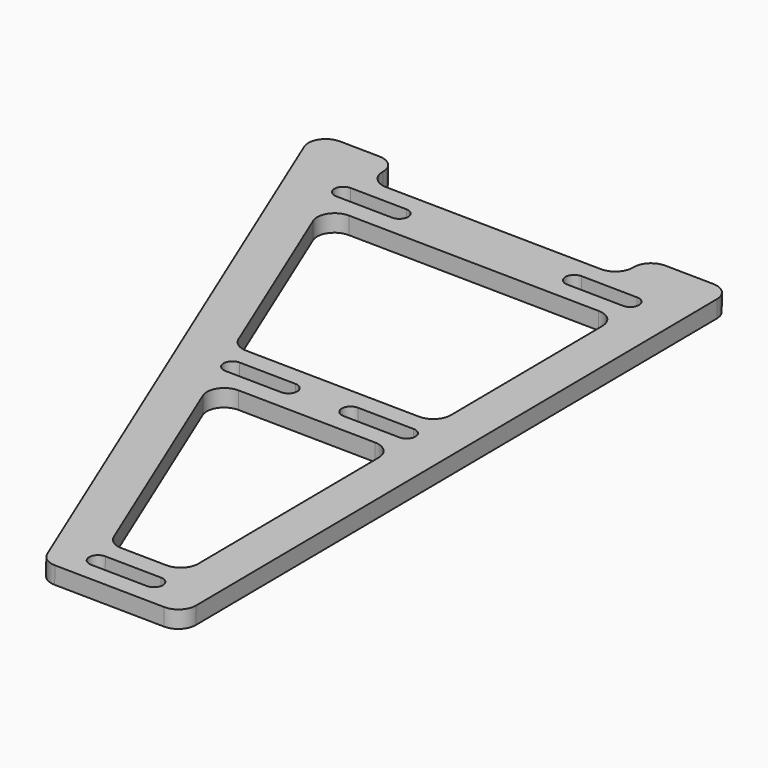
from build123d import *

# Parameters (mm, degrees)
PAD_DEPTH              = 6.25
FILLET_R               = 6.4
MIRROR_ROLL_ANGLE      = -179.860361
MIRROR_PITCH_ANGLE     = 0.86933
MIRROR_PLACEMENT_ANGLE = 0.335531


with BuildPart() as body:
    # Sketch → Pad (new body)
    with BuildSketch(Plane.XY):
        Polygon((0, 250), (50, 250), (150, 0), (120, 0), (120, 13.2), (30, 13.2), (30, 0), (0, 0), align=None)
        Polygon((15, 230), (15, 135), (79.844506, 135), (41.844506, 230), align=None, mode=Mode.SUBTRACT)
        Polygon((15, 115), (15, 33.2), (120.564506, 33.2), (87.844506, 115), align=None, mode=Mode.SUBTRACT)
        with BuildLine():
            ThreePointArc((18, 243.25), (14.75, 240), (18, 236.75))
            Line((18, 236.75), (38, 236.75))
            ThreePointArc((38, 236.75), (41.25, 240), (38, 243.25))
            Line((38, 243.25), (18, 243.25))
        make_face(mode=Mode.SUBTRACT)
        with BuildLine():
            ThreePointArc((60.5, 128.25), (57.25, 125), (60.5, 121.75))
            Line((60.5, 121.75), (80.5, 121.75))
            ThreePointArc((80.5, 121.75), (83.75, 125), (80.5, 128.25))
            Line((80.5, 128.25), (60.5, 128.25))
        make_face(mode=Mode.SUBTRACT)
        with BuildLine():
            ThreePointArc((18, 128.25), (14.75, 125), (18, 121.75))
            Line((18, 121.75), (38, 121.75))
            ThreePointArc((38, 121.75), (41.25, 125), (38, 128.25))
            Line((38, 128.25), (18, 128.25))
        make_face(mode=Mode.SUBTRACT)
        with BuildLine():
            ThreePointArc((18, 26.45), (14.75, 23.2), (18, 19.95))
            Line((18, 19.95), (38, 19.95))
            ThreePointArc((38, 19.95), (41.25, 23.2), (38, 26.45))
            Line((38, 26.45), (18, 26.45))
        make_face(mode=Mode.SUBTRACT)
        with BuildLine():
            ThreePointArc((101, 26.45), (97.75, 23.2), (101, 19.95))
            Line((101, 19.95), (121, 19.95))
            ThreePointArc((121, 19.95), (124.25, 23.2), (121, 26.45))
            Line((121, 26.45), (101, 26.45))
        make_face(mode=Mode.SUBTRACT)
    extrude(amount=PAD_DEPTH)

    # Fillet
    fillet_edges = [body.edges().sort_by_distance(p)[0] for p in [
        (0, 0, 3.125),
        (50, 250, 3.125),
        (0, 250, 3.125),
        (150, 0, 3.125),
        (120, 0, 3.125),
        (30, 0, 3.125),
        (41.844506, 230, 3.125),
        (15, 230, 3.125),
        (87.844506, 115, 3.125),
        (15, 115, 3.125),
        (15, 135, 3.125),
        (15, 33.2, 3.125),
        (120.564506, 33.2, 3.125),
        (79.844506, 135, 3.125),
        (30, 13.2, 3.125),
        (120, 13.2, 3.125),
    ]]
    fillet(fillet_edges, radius=FILLET_R)


with BuildPart() as body_mirrored:
    # mirror: instance of Body
    add(body.part.mirror(Plane(origin=(159.79538, 145.255219, 2.976273), x_dir=(0.000289, 1, 0), z_dir=(-1, 0.000289, -5.1e-05))))


with BuildPart() as body_mirrored_1:
    # mirror roll: moved
    add(body_mirrored.part.rotate(Axis((0, 0, 0), (1, 0, 0)), MIRROR_ROLL_ANGLE))


with BuildPart() as body_mirrored_2:
    # mirror pitch: moved
    add(body_mirrored_1.part.rotate(Axis((0, 0, 0), (0, 1, 0)), MIRROR_PITCH_ANGLE))


with BuildPart() as body_mirrored_3:
    # mirror placement: moved
    add(body_mirrored_2.part.moved(Location((-110.969424, 247.905415, 10.458181))).rotate(Axis((-110.969424, 247.905415, 10.458181), (0, 0, 1)), MIRROR_PLACEMENT_ANGLE))


solid = body_mirrored_3.part
